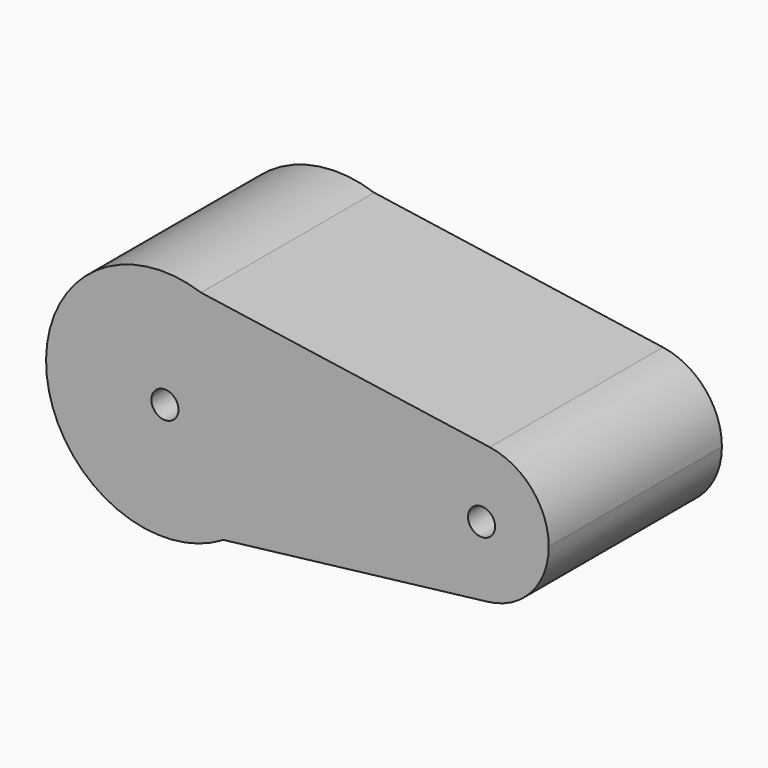
from build123d import *

# Parameters (mm, degrees)
F2_DEPTH = 50.8
F3_D     = 6.35


with BuildPart() as f2:
    # F0 (on Front) → F2 (new body)
    with BuildSketch(Plane.XZ):
        with BuildLine():
            ThreePointArc((-21.131788, -23.46847), (-11.433926, -13.47147), (-7.897254, 0))
            ThreePointArc((-7.897254, 0), (-12.99061, 15.919526), (-26.378829, 25.925983))
            ThreePointArc((-26.378829, 25.925983), (-62.594401, -2.897016), (-21.131788, -23.46847))
        make_face()
        with BuildLine():
            ThreePointArc((-26.378829, 25.925983), (-12.99061, 15.919526), (-7.897254, 0))
            ThreePointArc((-7.897254, 0), (-11.433926, -13.47147), (-21.131788, -23.46847))
            Line((-21.131788, -23.46847), (40.957866, -16.070068))
            ThreePointArc((40.957866, -16.070068), (22.860697, 0.215672), (41.385461, 16.013328))
            Line((41.385461, 16.013328), (-26.378829, 25.925983))
        make_face()
        with BuildLine():
            ThreePointArc((55.226759, 0), (51.286853, 10.583102), (41.385461, 16.013328))
            ThreePointArc((41.385461, 16.013328), (22.860697, 0.215672), (40.957866, -16.070068))
            ThreePointArc((40.957866, -16.070068), (51.144731, -10.745329), (55.226759, 0))
        make_face()
    extrude(amount=F2_DEPTH)

    # F3 (through all)
    with Locations(Plane(origin=(0, 0, 0), x_dir=(1, 0, 0), z_dir=(0, 1, 0))):
        with Locations((-34.853246, 0), (39.460354, 0)):
            Hole(F3_D / 2)


solid = f2.part
